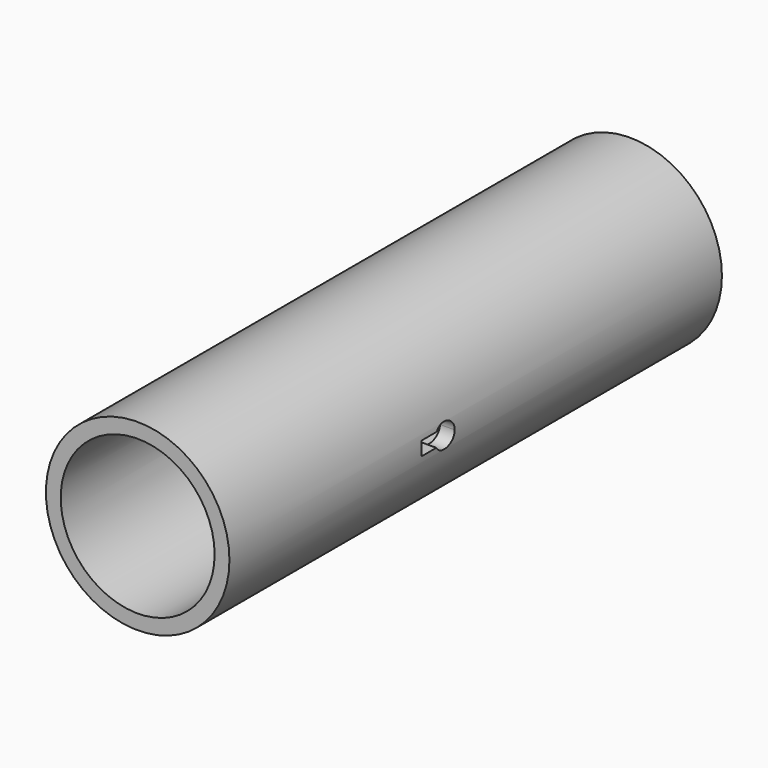
from build123d import *

# Parameters (mm, degrees)
F0_R          = 30.2895
F1_DEPTH      = 203.2
F2_R          = 25.4
F3_DEPTH      = 203.201
F5_DEPTH      = 30.2905
F5_DEPTH_BACK = 30.2905


with BuildPart() as f1:
    # F0 (on Front) → F1 (new body)
    with BuildSketch(Plane.XZ):
        Circle(F0_R)
    extrude(amount=F1_DEPTH)

    # F2 (on face) → F3 (cut, through all)
    with BuildSketch(Plane.XZ.offset(203.2)):
        Circle(F2_R)
    extrude(amount=-F3_DEPTH, mode=Mode.SUBTRACT)

    # F4 (on Right) → F5 (cut, two sides)
    with BuildSketch(Plane.YZ) as f5_sk:
        with BuildLine():
            ThreePointArc((-117.7401898741, -2.1636057012), (-113.1741304801, -3.904934548), (-110.236, 0))
            ThreePointArc((-110.236, 0), (-113.0325941755, 3.8613182304), (-117.5734894076, 2.4083942988))
            Line((-117.5734894076, 2.4083942988), (-117.5734894076, -2.1636057012))
            Line((-117.5734894076, -2.1636057012), (-117.7401898741, -2.1636057012))
        make_face()
        with BuildLine():
            Line((-117.5734894076, -2.1636057012), (-117.5734894076, 2.4083942988))
            ThreePointArc((-117.5734894076, 2.4083942988), (-118.3613013154, 0.1480797953), (-117.7401898741, -2.1636057012))
            Line((-117.7401898741, -2.1636057012), (-117.5734894076, -2.1636057012))
        make_face()
        with BuildLine():
            ThreePointArc((-117.7401898741, -2.1636057012), (-118.3613013154, 0.1480797953), (-117.5734894076, 2.4083942988))
            Line((-117.5734894076, 2.4083942988), (-123.9234894076, 2.4083942988))
            Line((-123.9234894076, 2.4083942988), (-123.9234894076, -2.1636057012))
            Line((-123.9234894076, -2.1636057012), (-117.7401898741, -2.1636057012))
        make_face()
    extrude(amount=-F5_DEPTH, mode=Mode.SUBTRACT)
    extrude(f5_sk.sketch, amount=F5_DEPTH_BACK, mode=Mode.SUBTRACT)


solid = f1.part
